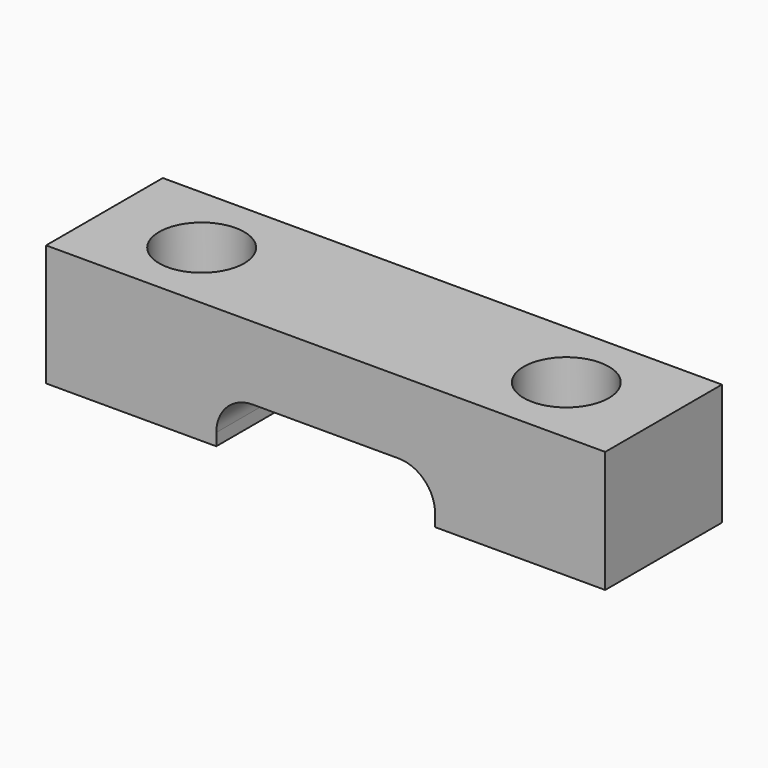
from build123d import *

# Parameters (mm, degrees)
F0_W     = 7
F0_H     = 2
F1_DEPTH = 6
F2_R     = 1.75
F3_DEPTH = 5.001
F4_R     = 1.5


with BuildPart() as f1:
    # F0 (on Front) → F1 (new body)
    with BuildSketch(Plane.XZ):
        Polygon((5, 8), (5, 5), (12, 5), (21, 5), (28, 5), (28, 8), align=None)
        with Locations((8.5, 4)):
            Rectangle(F0_W, F0_H)
        with Locations((24.5, 4)):
            Rectangle(F0_W, F0_H)
    extrude(amount=F1_DEPTH)

    # F2 (on face) → F3 (cut, through all)
    with BuildSketch(Plane.XY.offset(8)):
        with Locations((9, -3)):
            Circle(F2_R)
        with Locations((24, -3)):
            Circle(F2_R)
    extrude(amount=-F3_DEPTH, mode=Mode.SUBTRACT)

    # F4
    f4_edges = [f1.edges().sort_by_distance(p)[0] for p in [
        (12, -3, 5),
        (21, -3, 5),
    ]]
    fillet(f4_edges, radius=F4_R)


solid = f1.part
